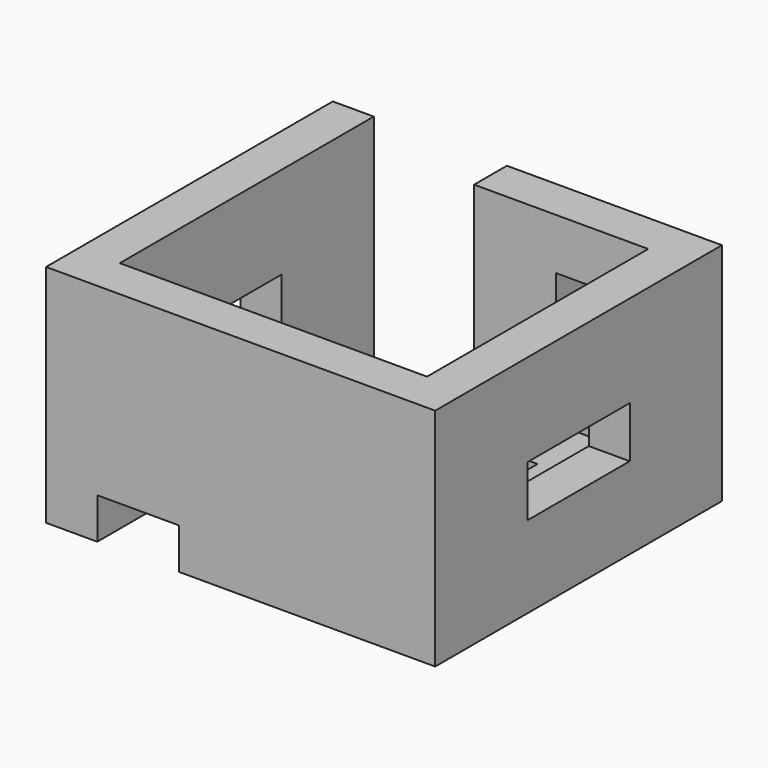
from build123d import *

# Parameters (mm, degrees)
F0_W     = 4
F0_H     = 4
F0_W_2   = 10
F0_H_2   = 5
F1_DEPTH = 2
F2_DEPTH = 11
F3_W     = 4
F3_H     = 6
F4_DEPTH = 2.9
F5_W     = 6.25
F5_H     = 2.5
F6_DEPTH = 20
F7_W     = 4
F7_H     = 2
F8_DEPTH = 2.8


with BuildPart() as f1:
    # F0 (on Top) → F1 (new body)
    with BuildSketch(Plane.XY):
        Polygon((-7.5, -6.75), (7.5, -6.75), (7.5, 6.75), (-1, 6.75), (-7.5, 6.75), align=None)
        with Locations((-5, -4.25)):
            Rectangle(F0_W, F0_H, mode=Mode.SUBTRACT)
        with Locations((-0.5, 1.25)):
            Rectangle(F0_W_2, F0_H_2, mode=Mode.SUBTRACT)
    extrude(amount=F1_DEPTH)

    # F0 (on Top) → F2 (join)
    with BuildSketch(Plane.XY):
        Polygon((7.5, 6.75), (7.5, -6.75), (-7.5, -6.75), (-7.5, 6.75), (-7.5, 8.75), (-9.5, 8.75), (-9.5, -8.75), (9.5, -8.75), (9.5, 8.75), (-1, 8.75), (-1, 6.75), align=None)
    extrude(amount=F2_DEPTH)

    # F3 (on face) → F4 (cut)
    with BuildSketch(Plane(origin=(0, 8.75, 0), x_dir=(-1, 0, 0), z_dir=(0, 1, 0))):
        with Locations((-5, 5.5)):
            Rectangle(F3_W, F3_H)
    extrude(amount=-F4_DEPTH, mode=Mode.SUBTRACT)

    # F5 (on face) → F6 (cut)
    with BuildSketch(Plane.YZ.offset(9.5)):
        with Locations((0, 5.25)):
            Rectangle(F5_W, F5_H)
    extrude(amount=-F6_DEPTH, mode=Mode.SUBTRACT)

    # F7 (on face) → F8 (cut)
    with BuildSketch(Plane.XZ.offset(8.75)):
        with Locations((-5, 1)):
            Rectangle(F7_W, F7_H)
    extrude(amount=-F8_DEPTH, mode=Mode.SUBTRACT)


solid = f1.part
